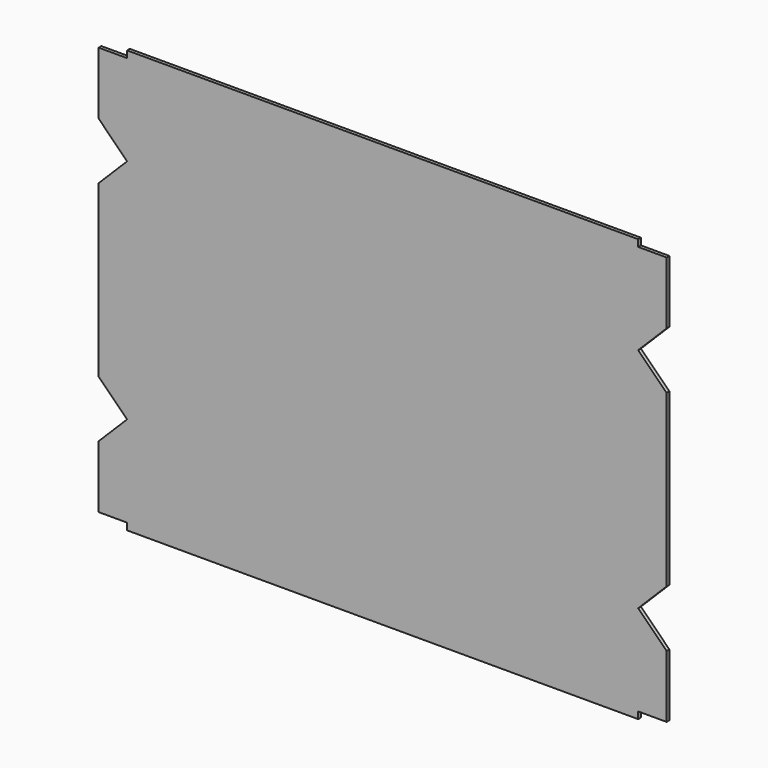
from build123d import *

# Parameters (mm, degrees)
F1_DEPTH = 3


with BuildPart() as f1:
    # F0 (on Front) → F1 (new body)
    with BuildSketch(Plane.XZ):
        Polygon((225, 180), (225, 186), (-225, 186), (-225, 180), (-250, 180), (-250, 125), (-225, 100), (-225, -100), (-250, -125), (-250, -180), (-225, -180), (-225, -186), (225, -186), (225, -180), (250, -180), (250, -125), (225, -100), (225, 100), (250, 125), (250, 180), align=None)
        Polygon((250, 75), (225, 100), (225, -100), (250, -75), align=None)
        Polygon((-225, -100), (-225, 100), (-250, 75), (-250, -75), align=None)
    extrude(amount=F1_DEPTH)


solid = f1.part
